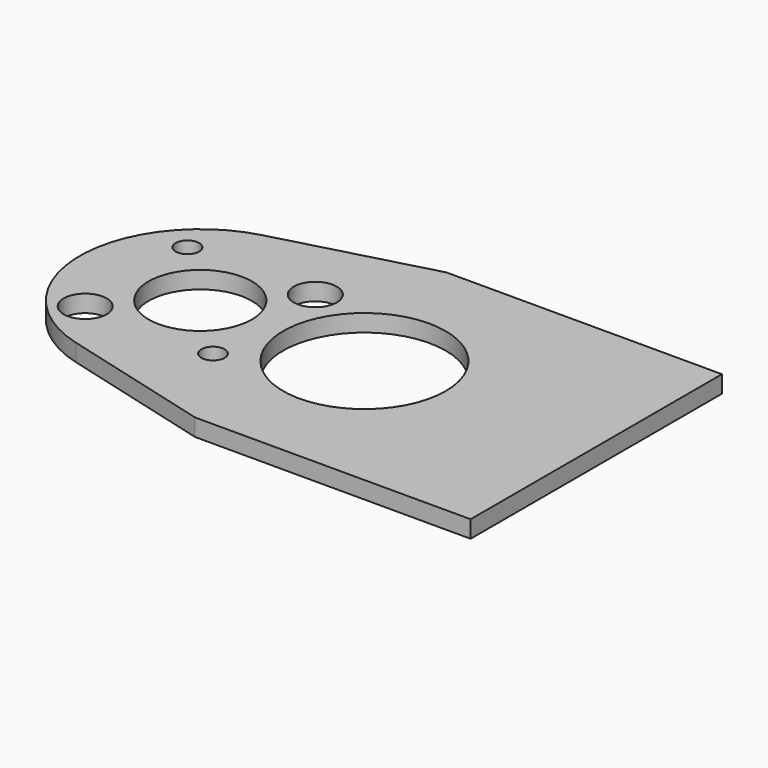
from build123d import *

# Parameters (mm, degrees)
F0_R     = 3.96875
F0_R_2   = 9.525
F0_R_3   = 2.15265
F0_R_4   = 14.986
F1_DEPTH = 3.175


with BuildPart() as f1:
    # F0 (on Top) → F1 (new body)
    with BuildSketch(Plane.XY):
        with BuildLine():
            Line((73.025, 28.964184), (22.225, 28.964184))
            Line((22.225, 28.964184), (-5.752253, 21.467701))
            ThreePointArc((-5.752253, 21.467701), (-22.225, 0), (-5.752253, -21.467701))
            Line((-5.752253, -21.467701), (22.225, -28.964184))
            Line((22.225, -28.964184), (73.025, -28.964184))
            Line((73.025, -28.964184), (73.025, 28.964184))
        make_face()
        with Locations((-11.786586, -11.786586)):
            Circle(F0_R, mode=Mode.SUBTRACT)
        Circle(F0_R_2, mode=Mode.SUBTRACT)
        with Locations((11.786586, -11.786586)):
            Circle(F0_R_3, mode=Mode.SUBTRACT)
        with Locations((30.272228, 0)):
            Circle(F0_R_4, mode=Mode.SUBTRACT)
        with Locations((-11.786586, 11.786586)):
            Circle(F0_R_3, mode=Mode.SUBTRACT)
        with Locations((11.786586, 11.786586)):
            Circle(F0_R, mode=Mode.SUBTRACT)
    extrude(amount=F1_DEPTH)


solid = f1.part
